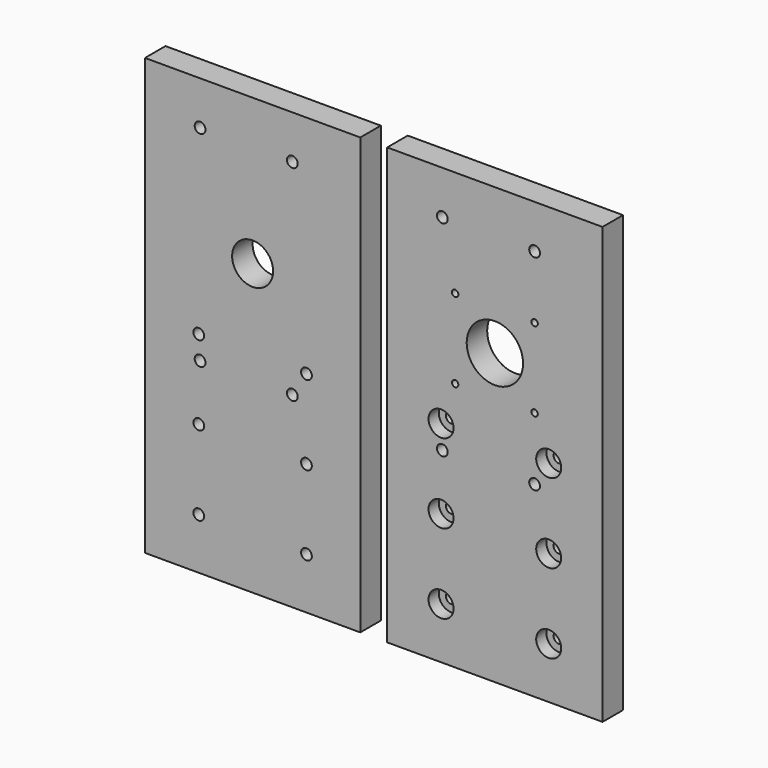
from build123d import *

# Parameters (mm, degrees)
F0_W            = 84
F0_H            = 170
F1_DEPTH        = 10
F4_D            = 4.2
F4_DEPTH        = 14.4
F4_TIP          = 1.2618073
F5_W            = 84
F5_H            = 170
F5_R            = 8
F6_DEPTH        = 10
F8_D            = 4.2
F8_DEPTH        = 14.4
F8_TIP          = 1.2618073
F10_D           = 4.2
F12_D           = 4.2
F12_CBORE_D     = 9.75
F12_CBORE_DEPTH = 5
F14_D           = 4.2
F14_CBORE_D     = 9.75
F14_CBORE_DEPTH = 5
F2_R            = 11
F15_DEPTH       = 25
F16_D           = 4.2
F17_D           = 2.5


with BuildPart() as f1:
    # F0 (on Front) → F1 (new body)
    with BuildSketch(Plane.XZ):
        Rectangle(F0_W, F0_H)
    extrude(amount=F1_DEPTH)

    # F4
    with Locations(Plane(origin=(0, 0, -85), x_dir=(1, 0, 0), z_dir=(0, 0, -1))):
        with Locations((-29, 5), (0, 5), (29, 5)):
            Hole(F4_D / 2, depth=F4_DEPTH)
            with Locations((0, 0, -(F4_DEPTH + F4_TIP / 2))):  # 118° drill point
                Cone(0, F4_D / 2, F4_TIP, mode=Mode.SUBTRACT)

    # F12 (through all)
    with Locations(Plane.XZ.offset(10)):
        with Locations((-21, -65), (21, -65), (21, -3), (-21, -3), (-21, -34), (21, -34)):
            CounterBoreHole(F12_D / 2, F12_CBORE_D / 2, F12_CBORE_DEPTH)

    # F2 (on face) → F15 (cut)
    with BuildSketch(Plane(origin=(0, 0, 0), x_dir=(-1, 0, 0), z_dir=(0, 1, 0))):
        with Locations((0, 28)):
            Circle(F2_R)
    extrude(amount=-F15_DEPTH, mode=Mode.SUBTRACT)

    # F16 (through all)
    with Locations(Plane(origin=(0, 0, 0), x_dir=(-1, 0, 0), z_dir=(0, 1, 0))):
        with Locations((-15.5, 68), (20.5, 68), (-15.5, -12), (20.5, -12)):
            Hole(F16_D / 2)

    # F17 (through all)
    with Locations(Plane(origin=(0, 0, 0), x_dir=(-1, 0, 0), z_dir=(0, 1, 0))):
        with Locations((-15.5, 43.5), (15.5, 43.5), (-15.5, 12.5), (15.5, 12.5)):
            Hole(F17_D / 2)


with BuildPart() as f6:
    # F5 (on Front) → F6 (new body)
    with BuildSketch(Plane.XZ):
        with Locations((-94.5093333721, 0)):
            Rectangle(F5_W, F5_H)
        with Locations((-94.5093333721, 0)):
            Circle(F5_R, mode=Mode.SUBTRACT)
        with Locations((-94.5093333721, 28)):
            Circle(F5_R, mode=Mode.SUBTRACT)
        with Locations((-94.5093333721, 0)):
            Circle(F5_R)
    extrude(amount=F6_DEPTH)

    # F8
    with Locations(Plane(origin=(0, 0, -85), x_dir=(1, 0, 0), z_dir=(0, 0, -1))):
        with Locations((-123.5093333721, 5), (-94.5093333721, 5), (-65.5093333721, 5)):
            Hole(F8_D / 2, depth=F8_DEPTH)
            with Locations((0, 0, -(F8_DEPTH + F8_TIP / 2))):  # 118° drill point
                Cone(0, F8_D / 2, F8_TIP, mode=Mode.SUBTRACT)

    # F10 (through all)
    with Locations(Plane(origin=(0, 0, 0), x_dir=(-1, 0, 0), z_dir=(0, 1, 0))):
        with Locations((79.0093333721, -12), (115.0093333721, -12), (79.0093333721, 68), (115.0093333721, 68)):
            Hole(F10_D / 2)

    # F14 (through all)
    with Locations(Plane(origin=(0, 0, 0), x_dir=(-1, 0, 0), z_dir=(0, 1, 0))):
        with Locations((73.5093333721, -3), (115.5093333721, -3), (115.5093333721, -65), (73.5093333721, -65), (73.5093333721, -34), (115.5093333721, -34)):
            CounterBoreHole(F14_D / 2, F14_CBORE_D / 2, F14_CBORE_DEPTH)


solid = Compound([f1.part, f6.part])
